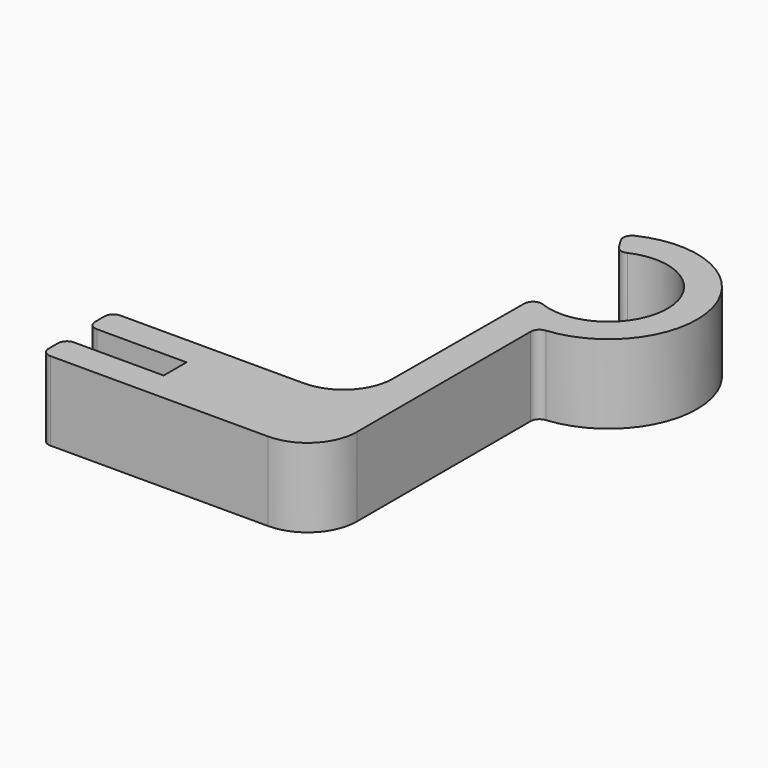
from build123d import *

# Parameters (mm, degrees)
F1_DEPTH = 8


with BuildPart() as f1:
    # F0 (on Top) → F1 (new body)
    with BuildSketch(Plane.XY):
        with BuildLine():
            ThreePointArc((12.54505, 5.47478), (20.998113, 0.150452), (12.822614, -5.590974))
            ThreePointArc((12.822614, -5.590974), (11.989698, -5.685543), (11.596015, -6.425615))
            Line((11.596015, -6.425615), (11.522153, -23.022252))
            ThreePointArc((11.522153, -23.022252), (10.049861, -26.543392), (6.522203, -28))
            Line((6.522203, -28), (-12.1, -28))
            ThreePointArc((-12.1, -28), (-12.736396, -28.263604), (-13, -28.9))
            Line((-13, -28.9), (-13, -30.1))
            ThreePointArc((-13, -30.1), (-12.736396, -30.736396), (-12.1, -31))
            Line((-12.1, -31), (-3, -31))
            Line((-3, -31), (-3, -33.9))
            Line((-3, -33.9), (-12.1, -33.9))
            ThreePointArc((-12.1, -33.9), (-12.736396, -34.163604), (-13, -34.8))
            Line((-13, -34.8), (-13, -36))
            ThreePointArc((-13, -36), (-12.736396, -36.636396), (-12.1, -36.9))
            Line((-12.1, -36.9), (-0.9, -36.9))
            Line((-0.9, -36.9), (10, -36.9))
            ThreePointArc((10, -36.9), (13.535534, -35.435534), (15, -31.9))
            Line((15, -31.9), (15, -9.859006))
            ThreePointArc((15, -9.859006), (15.235306, -9.252226), (15.818182, -8.962733))
            ThreePointArc((15.818182, -8.962733), (23.683432, 2.36601), (11.158421, 8.138935))
            ThreePointArc((11.158421, 8.138935), (10.679833, 7.581303), (10.776409, 6.85283))
            Line((10.776409, 6.85283), (11.410638, 5.823786))
            ThreePointArc((11.410638, 5.823786), (11.912161, 5.435787), (12.54505, 5.47478))
        make_face()
    extrude(amount=F1_DEPTH)


solid = f1.part
